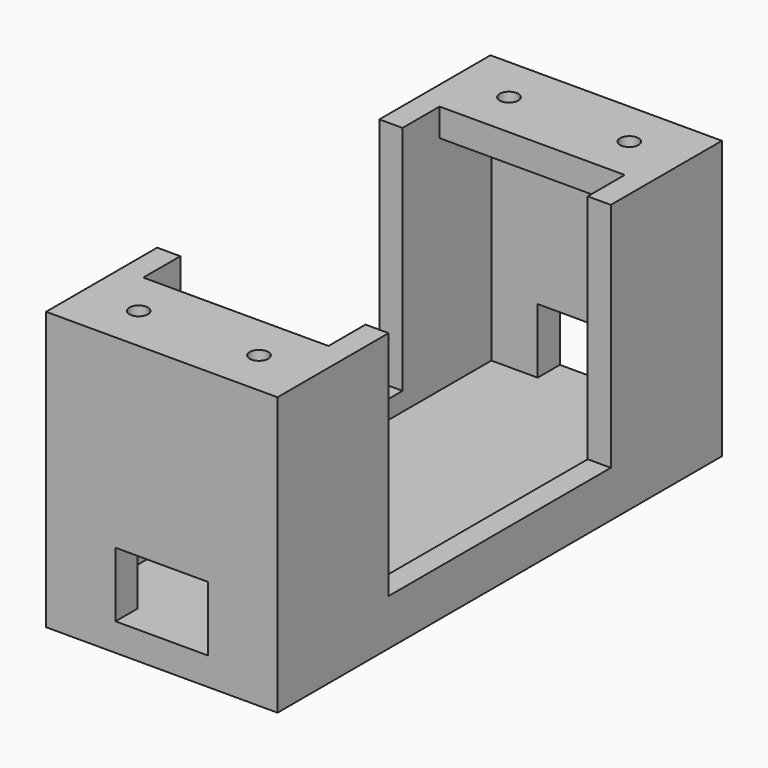
from build123d import *

# Parameters (mm, degrees)
SKETCH_W        = 25
SKETCH_H        = 60
PAD_DEPTH       = 30
SKETCH001_W     = 20
SKETCH001_H     = 40
POCKET_DEPTH    = 27
SKETCH002_W     = 2.5
SKETCH002_H     = 30
POCKET001_DEPTH = 25
SKETCH003_W     = 2.5
SKETCH003_H     = 30
POCKET002_DEPTH = 25
SKETCH004_W     = 20
SKETCH004_H     = 24
POCKET003_DEPTH = 7
SKETCH005_W     = 20
SKETCH005_H     = 24
POCKET004_DEPTH = 7
SKETCH006_W     = 10
SKETCH006_H     = 7
POCKET005_DEPTH = 60.001
SKETCH007_R     = 1
POCKET006_DEPTH = 3
SKETCH008_R     = 1
POCKET007_DEPTH = 3


with BuildPart() as part:
    # Sketch → Pad (new body)
    with BuildSketch(Plane.XY):
        with Locations((12.5, 30)):
            Rectangle(SKETCH_W, SKETCH_H)
    extrude(amount=PAD_DEPTH)

    # Sketch001 (on Face6 of Pad) → Pocket (cut)
    with BuildSketch(Plane.XY.offset(30)):
        with Locations((12.5, 30)):
            Rectangle(SKETCH001_W, SKETCH001_H)
    extrude(amount=-POCKET_DEPTH, mode=Mode.SUBTRACT)

    # Sketch002 (on Face5 of Pocket) → Pocket001 (cut)
    with BuildSketch(Plane.XY.offset(30)):
        with Locations((1.25, 30)):
            Rectangle(SKETCH002_W, SKETCH002_H)
    extrude(amount=-POCKET001_DEPTH, mode=Mode.SUBTRACT)

    # Sketch003 (on Face5 of Pocket) → Pocket002 (cut)
    with BuildSketch(Plane.XY.offset(30)):
        with Locations((23.75, 30)):
            Rectangle(SKETCH003_W, SKETCH003_H)
    extrude(amount=-POCKET002_DEPTH, mode=Mode.SUBTRACT)

    # Sketch004 (on Face17 of Pocket002) → Pocket003 (cut)
    with BuildSketch(Plane.XZ.offset(-50)):
        with Locations((12.5, 15)):
            Rectangle(SKETCH004_W, SKETCH004_H)
    extrude(amount=-POCKET003_DEPTH, mode=Mode.SUBTRACT)

    # Sketch005 (on Face15 of Pocket002) → Pocket004 (cut)
    with BuildSketch(Plane(origin=(0, 10, 0), x_dir=(-1, 0, 0), z_dir=(0, 1, 0))):
        with Locations((-12.5, 15)):
            Rectangle(SKETCH005_W, SKETCH005_H)
    extrude(amount=-POCKET004_DEPTH, mode=Mode.SUBTRACT)

    # Sketch006 (on Face10 of Pocket004) → Pocket005 (cut, through all)
    with BuildSketch(Plane(origin=(0, 60, 0), x_dir=(-1, 0, 0), z_dir=(0, 1, 0))):
        with Locations((-12.5, 6.5)):
            Rectangle(SKETCH006_W, SKETCH006_H)
    extrude(amount=-POCKET005_DEPTH, mode=Mode.SUBTRACT)

    # Sketch007 (on Face4 of Pocket005) → Pocket006 (cut)
    with BuildSketch(Plane.XY.offset(30)):
        with Locations((6, 5)):
            Circle(SKETCH007_R)
        with Locations((19, 5)):
            Circle(SKETCH007_R)
    extrude(amount=-POCKET006_DEPTH, mode=Mode.SUBTRACT)

    # Sketch008 (on Face13 of Pocket005) → Pocket007 (cut)
    with BuildSketch(Plane.XY.offset(30)):
        with Locations((6, 55)):
            Circle(SKETCH008_R)
        with Locations((19, 55)):
            Circle(SKETCH008_R)
    extrude(amount=-POCKET007_DEPTH, mode=Mode.SUBTRACT)


solid = part.part
